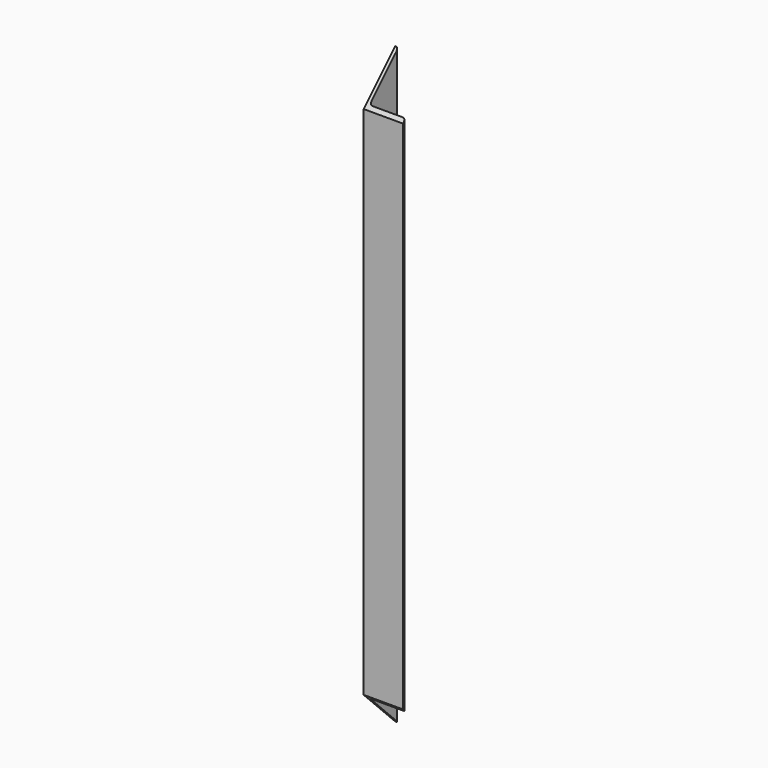
from build123d import *

# Parameters (mm, degrees)
F1_DEPTH = 574.675
F3_DEPTH = 76.2
F4_R     = 5.08


with BuildPart() as f1:
    # F0 (on Top) → F1 (new body, symmetric)
    with BuildSketch(Plane.XY):
        Polygon((0, 76.2), (0, 0), (76.2, 0), (76.2, 6.35), (6.35, 6.35), (6.35, 76.2), align=None)
    extrude(amount=F1_DEPTH, both=True)

    # F2 (on face) → F3 (cut)
    with BuildSketch(Plane(origin=(0, 0, 0), x_dir=(0, -1, 0), z_dir=(-1, 0, 0))):
        Polygon((-76.2, -574.675), (0, -574.675), (0, -498.475), align=None)
        Polygon((0, 574.675), (-76.2, 574.675), (0, 498.475), align=None)
    extrude(amount=-F3_DEPTH, mode=Mode.SUBTRACT)

    # F4
    f4_edges = [f1.edges().sort_by_distance(p)[0] for p in [
        (6.35, 76.2, 0),
        (6.35, 6.35, 0),
        (76.2, 6.35, 0),
    ]]
    fillet(f4_edges, radius=F4_R)


solid = f1.part
